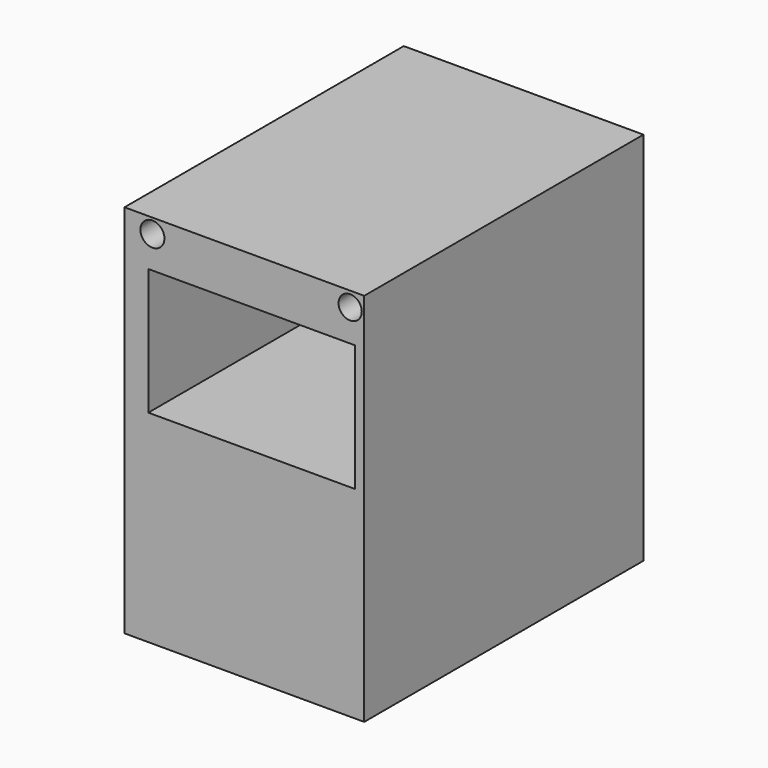
from build123d import *

# Parameters (mm, degrees)
F0_W     = 220.9899574518
F0_H     = 131.3110403717
F0_W_2   = 190.593034029
F0_H_2   = 116.621889174
F0_H_3   = 37.5250019133
F0_R     = 11.0841041045
F0_R_2   = 10.6963594921
F1_DEPTH = 128.778
F0_R_3   = 38.7661660701
F0_R_4   = 31.4827713073
F0_R_5   = 8.7735073829
F2_DEPTH = 177.038
F3_DEPTH = 193.04


with BuildPart() as f1:
    # F0 (on Front) → F1 (new body)
    with BuildSketch(Plane.XZ):
        with Locations((-11.897906661, -15.5370328575)):
            Rectangle(F0_W, F0_H)
        with Locations((-5.1528438926, -13.618927449)):
            Rectangle(F0_W_2, F0_H_2, mode=Mode.SUBTRACT)
        with Locations((-11.897906661, 68.8809882849)):
            Rectangle(F0_W, F0_H_3)
        with Locations((-96.6931059957, 74.2219984531)):
            Circle(F0_R, mode=Mode.SUBTRACT)
        with Locations((85.6308117509, 74.0287080407)):
            Circle(F0_R_2, mode=Mode.SUBTRACT)
    extrude(amount=F1_DEPTH)

    # F2 (add): a face of the model
    f2_faces = [f1.faces().sort_by_distance(p)[0] for p in [
        (-11.897906661, -64.389, -81.1925530434),
    ]]
    extrude(f2_faces, amount=F2_DEPTH)

    # F3 (add): a face of the model
    f3_faces = [f1.faces().sort_by_distance(p)[0] for p in [
        (-14.7457593818, -128.778, -117.3157060227),
    ]]
    extrude(f3_faces, amount=F3_DEPTH)


with BuildPart() as f1b:
    # F0 (on Front) → F1, piece 2 (new body)
    with BuildSketch(Plane.XZ):
        Circle(F0_R_3)
        Circle(F0_R_4, mode=Mode.SUBTRACT)
    extrude(amount=F1_DEPTH)


with BuildPart() as f1c:
    # F0 (on Front) → F1, piece 3 (new body)
    with BuildSketch(Plane.XZ):
        Circle(F0_R_5)
    extrude(amount=F1_DEPTH)


solid = Compound([f1.part, f1b.part, f1c.part])
